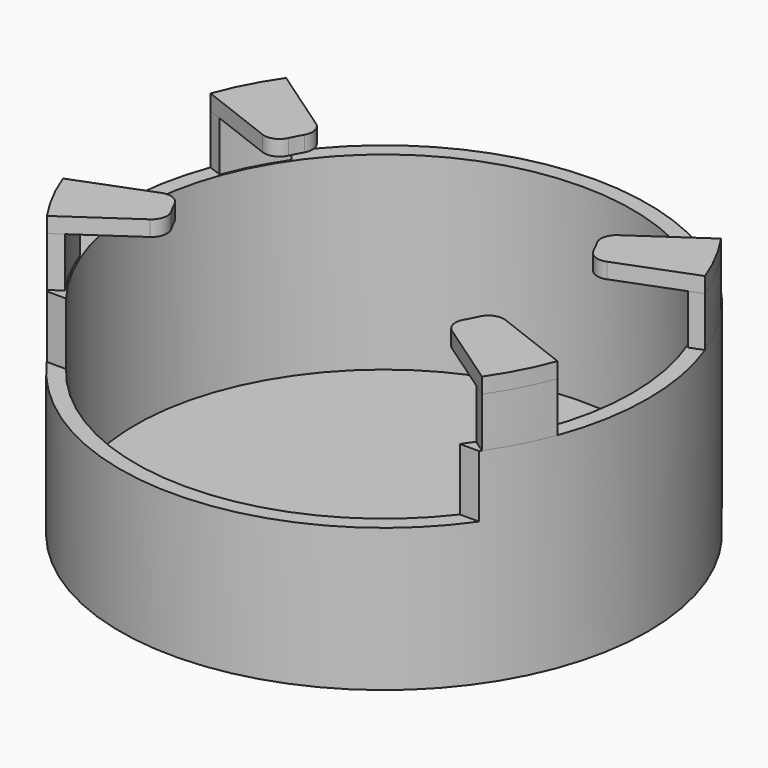
from build123d import *

# Parameters (mm, degrees)
SKETCH007_R                    = 8.5
PAD006_DEPTH                   = 6.6
THICKNESS_T                    = -0.5
PAD007_DEPTH                   = 1.6
PAD007_POLARPATTERN_2_DEPTH    = 1.6
PAD008_DEPTH                   = 0.5
PAD008_POLARPATTERN001_2_DEPTH = 0.5
SKETCH011_W                    = 13.925584
SKETCH011_H                    = 6.6246
POCKET001_DEPTH                = 2
FILLET006_R                    = 0.5


with BuildPart() as part:
    # Sketch007 (on DatumPlane) → Pad006 (new body)
    with BuildSketch(Plane(origin=(0, 0, -1), x_dir=(1, 0, 0), z_dir=(0, 0, -1))):
        Circle(SKETCH007_R)
    extrude(amount=PAD006_DEPTH)

    # Thickness
    thickness_openings = [part.faces().sort_by_distance(p)[0] for p in [
        (0, 0, -1),
    ]]
    offset(amount=THICKNESS_T, openings=thickness_openings)

    # Sketch008 (on Face3 of Thickness) → Pad007 (join)
    with BuildSketch(Plane.XY.offset(-1)):
        with BuildLine():
            ThreePointArc((-7.005526, 4.813794), (-7.541696, 3.920819), (-7.964623, 2.96897))
            Line((-7.540357, 2.810816), (-7.964623, 2.96897))
            ThreePointArc((-6.632349, 4.557368), (-7.139959, 3.711961), (-7.540357, 2.810816))
            Line((-6.632349, 4.557368), (-7.005526, 4.813794))
        make_face()
    pad007 = extrude(amount=PAD007_DEPTH)

    # Sketch008 PolarPattern 2 → Pad007 PolarPattern 2 (add)
    with BuildSketch(Plane(origin=(0, 0, -1), x_dir=(-1, 0, 0), z_dir=(0, 0, 1))):
        with BuildLine():
            ThreePointArc((-7.005526, 4.813794), (-7.541696, 3.920819), (-7.964623, 2.96897))
            Line((-7.540357, 2.810816), (-7.964623, 2.96897))
            ThreePointArc((-6.632349, 4.557368), (-7.139959, 3.711961), (-7.540357, 2.810816))
            Line((-6.632349, 4.557368), (-7.005526, 4.813794))
        make_face()
    pad007_polarpattern_2 = extrude(amount=PAD007_POLARPATTERN_2_DEPTH)

    # Mirrored: Pad007, Pad007 PolarPattern 2 across Sketch008 V_Axis
    add(pad007.mirror(Plane(origin=(0, 0, -1), x_dir=(0, 0, 1), z_dir=(1, 0, 0))))
    add(pad007_polarpattern_2.mirror(Plane(origin=(0, 0, -1), x_dir=(0, 0, 1), z_dir=(1, 0, 0))))

    # Sketch009 (on Face23 of MultiTransform) → Pad008 (join)
    with BuildSketch(Plane.XY.offset(0.6)):
        with BuildLine():
            ThreePointArc((-7.005526, 4.813794), (-7.542066, 3.921011), (-7.964623, 2.96897))
            Line((-5.09111, 1.862853), (-7.964623, 2.96897))
            ThreePointArc((-4.469489, 3.068188), (-4.818529, 2.485236), (-5.09111, 1.862853))
            Line((-7.005526, 4.813794), (-4.469489, 3.068188))
        make_face()
    pad008 = extrude(amount=PAD008_DEPTH)

    # Sketch009 PolarPattern001 2 → Pad008 PolarPattern001 2 (add)
    with BuildSketch(Plane(origin=(0, 0, 0.6), x_dir=(-1, 0, 0), z_dir=(0, 0, 1))):
        with BuildLine():
            ThreePointArc((-7.005526, 4.813794), (-7.542066, 3.921011), (-7.964623, 2.96897))
            Line((-5.09111, 1.862853), (-7.964623, 2.96897))
            ThreePointArc((-4.469489, 3.068188), (-4.818529, 2.485236), (-5.09111, 1.862853))
            Line((-7.005526, 4.813794), (-4.469489, 3.068188))
        make_face()
    pad008_polarpattern001_2 = extrude(amount=PAD008_POLARPATTERN001_2_DEPTH)

    # Mirrored001: Pad008, Pad008 PolarPattern001 2 across Sketch009 V_Axis
    add(pad008.mirror(Plane(origin=(0, 0, 0.6), x_dir=(0, 0, 1), z_dir=(1, 0, 0))))
    add(pad008_polarpattern001_2.mirror(Plane(origin=(0, 0, 0.6), x_dir=(0, 0, 1), z_dir=(1, 0, 0))))

    # Sketch011 (on Face1 of ShapeBinder001) → Pocket001 (cut)
    with BuildSketch(Plane(origin=(0, 0, -1), x_dir=(1, 0, 0), z_dir=(0, 0, -1))):
        with Locations((0, 8.1877)):
            Rectangle(SKETCH011_W, SKETCH011_H)
    extrude(amount=POCKET001_DEPTH, mode=Mode.SUBTRACT)

    # Fillet006
    fillet006_edges = [part.edges().sort_by_distance(p)[0] for p in [
        (-5.09111, -1.862853, 0.85),
        (-4.469489, -3.068188, 0.85),
        (4.469489, -3.068188, 0.85),
        (5.09111, -1.862853, 0.85),
        (5.09111, 1.862853, 0.85),
        (4.469489, 3.068188, 0.85),
        (-5.09111, 1.862853, 0.85),
        (-4.469489, 3.068188, 0.85),
    ]]
    fillet(fillet006_edges, radius=FILLET006_R)


solid = part.part
